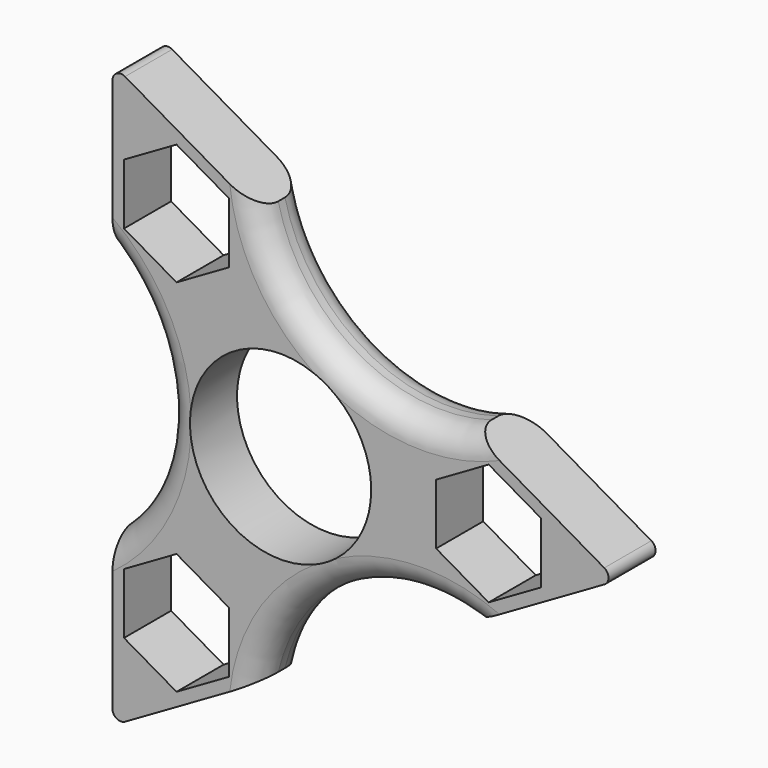
from build123d import *

# Parameters (mm, degrees)
F1_DEPTH = 7
F2_R     = 1
F3_R     = 3
F4_R     = 10.775
F5_DEPTH = 12.5


with BuildPart() as f1:
    # F0 (on Front) → F1 (new body)
    with BuildSketch(Plane.XZ):
        with BuildLine():
            Line((-42.679492, 24.641016), (-60, 34.641016))
            Line((-60, 34.641016), (-60, 14.641016))
            ThreePointArc((-60, 14.641016), (-53.625001, 0), (-60, -14.641016))
            Line((-60, -14.641016), (-60, -34.641016))
            Line((-60, -34.641016), (-42.679492, -24.641016))
            ThreePointArc((-42.679492, -24.641016), (-33.1875, -11.799597), (-17.320508, -10))
            Line((-17.320508, -10), (0, 0))
            Line((0, 0), (-17.320508, 10))
            ThreePointArc((-17.320508, 10), (-33.1875, 11.799597), (-42.679492, 24.641016))
        make_face()
        Polygon((-46.125, -25.042568), (-52.375, -28.651007), (-58.625, -25.042568), (-58.625, -17.82569), (-52.375, -14.21725), (-46.125, -17.82569), align=None, mode=Mode.SUBTRACT)
        Polygon((-46.125, 17.82569), (-52.375, 14.21725), (-58.625, 17.82569), (-58.625, 25.042568), (-52.375, 28.651007), (-46.125, 25.042568), align=None, mode=Mode.SUBTRACT)
        Polygon((-15.25, -7.216878), (-21.5, -3.608439), (-21.5, 3.608439), (-15.25, 7.216878), (-9, 3.608439), (-9, -3.608439), align=None, mode=Mode.SUBTRACT)
    extrude(amount=F1_DEPTH)

    # F2
    f2_edges = [f1.edges().sort_by_distance(p)[0] for p in [
        (-60, -3.5, 34.641016),
        (-60, -3.5, -34.641016),
        (0, -3.5, 0),
    ]]
    fillet(f2_edges, radius=F2_R)

    # F3
    f3_edges = [f1.edges().sort_by_distance(p)[0] for p in [
        (-53.625001, 0, 0),
        (-53.625001, -7, 0),
        (-33.1875, -7, 11.799597),
        (-33.1875, -7, -11.799597),
        (-33.1875, 0, -11.799597),
        (-33.1875, 0, 11.799597),
    ]]
    fillet(f3_edges, radius=F3_R)

    # F4 (on Front) → F5 (cut, symmetric)
    with BuildSketch(Plane.XZ):
        with Locations((-40, 0)):
            Circle(F4_R)
    extrude(amount=F5_DEPTH, both=True, mode=Mode.SUBTRACT)


solid = f1.part
